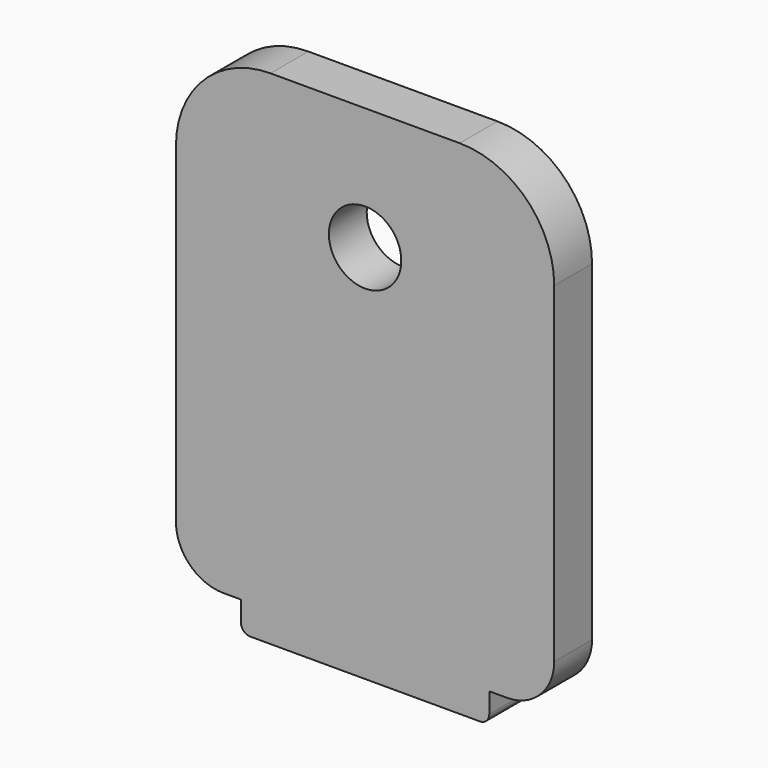
from build123d import *

# Parameters (mm, degrees)
F1_DEPTH = 12.7
F2_D     = 19.44624


with BuildPart() as f1:
    # F0 (on Front) → F1 (new body)
    with BuildSketch(Plane.XZ):
        with BuildLine():
            Line((-8.9467406929, 65.1259068947), (-59.7467406929, 65.1259068947))
            ThreePointArc((-59.7467406929, 65.1259068947), (-77.707252935, 57.6864191368), (-85.1467406929, 39.7259068947))
            Line((-85.1467406929, 39.7259068947), (-85.1467406929, -49.1740931053))
            ThreePointArc((-85.1467406929, -49.1740931053), (-81.4269968139, -58.1543492264), (-72.4467406929, -61.8740931053))
            Line((-72.4467406929, -61.8740931053), (-67.6969406929, -61.8740931053))
            Line((-67.6969406929, -61.8740931053), (-67.6969406929, -67.2842931053))
            ThreePointArc((-67.6969406929, -67.2842931053), (-66.9529919171, -69.0803443295), (-65.1569406929, -69.8242931053))
            Line((-65.1569406929, -69.8242931053), (-3.5365406929, -69.8242931053))
            ThreePointArc((-3.5365406929, -69.8242931053), (-1.7404894686, -69.0803443295), (-0.9965406929, -67.2842931053))
            Line((-0.9965406929, -67.2842931053), (-0.9965406929, -61.8740931053))
            Line((-0.9965406929, -61.8740931053), (3.7532593071, -61.8740931053))
            ThreePointArc((3.7532593071, -61.8740931053), (12.7335154282, -58.1543492264), (16.4532593071, -49.1740931053))
            Line((16.4532593071, -49.1740931053), (16.4532593071, 39.7259068947))
            ThreePointArc((16.4532593071, 39.7259068947), (9.0137715493, 57.6864191368), (-8.9467406929, 65.1259068947))
        make_face()
    extrude(amount=F1_DEPTH)

    # F2 (through all)
    with Locations(Plane(origin=(0, 0, 0), x_dir=(1, 0, 0), z_dir=(0, 1, 0))):
        with Locations((-34.3467406929, -32.2189068947)):
            Hole(F2_D / 2)


solid = f1.part
